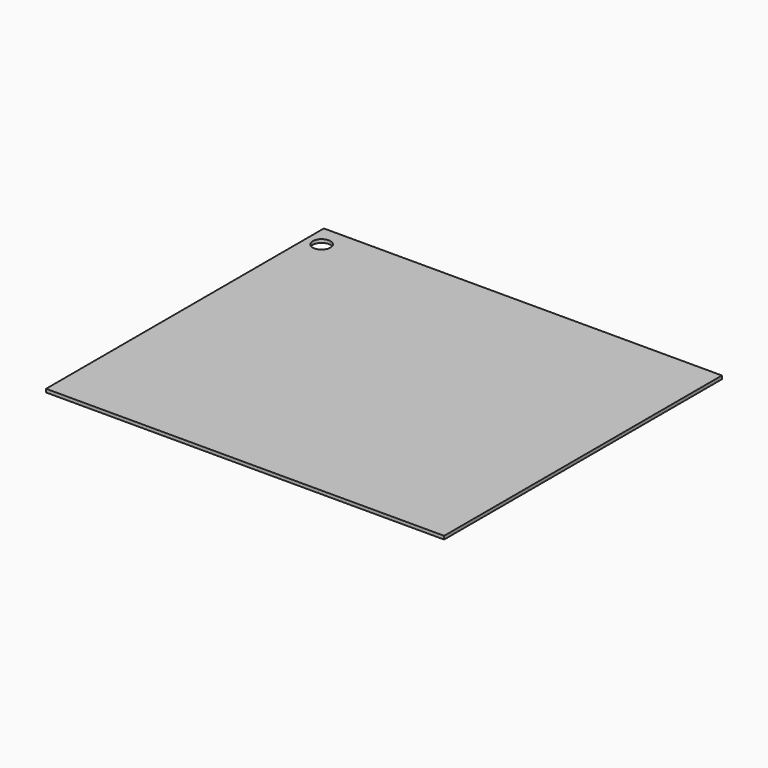
from build123d import *

# Parameters (mm, degrees)
F0_W     = 2286
F0_H     = 1993.9
F1_DEPTH = 19.05
F2_W     = 2286
F2_H     = 1993.9
F2_R     = 50.8
F3_DEPTH = 19.051


with BuildPart() as f1:
    # F0 (on Top) → F1 (new body)
    with BuildSketch(Plane.XY):
        Rectangle(F0_W, F0_H)
    extrude(amount=F1_DEPTH)

    # F2 (on face) → F3 (intersect, through all)
    with BuildSketch(Plane.XY.offset(19.05)):
        Rectangle(F2_W, F2_H)
        with Locations((-1054.1, 869.95)):
            Circle(F2_R, mode=Mode.SUBTRACT)
    extrude(amount=-F3_DEPTH, mode=Mode.INTERSECT)


solid = f1.part
